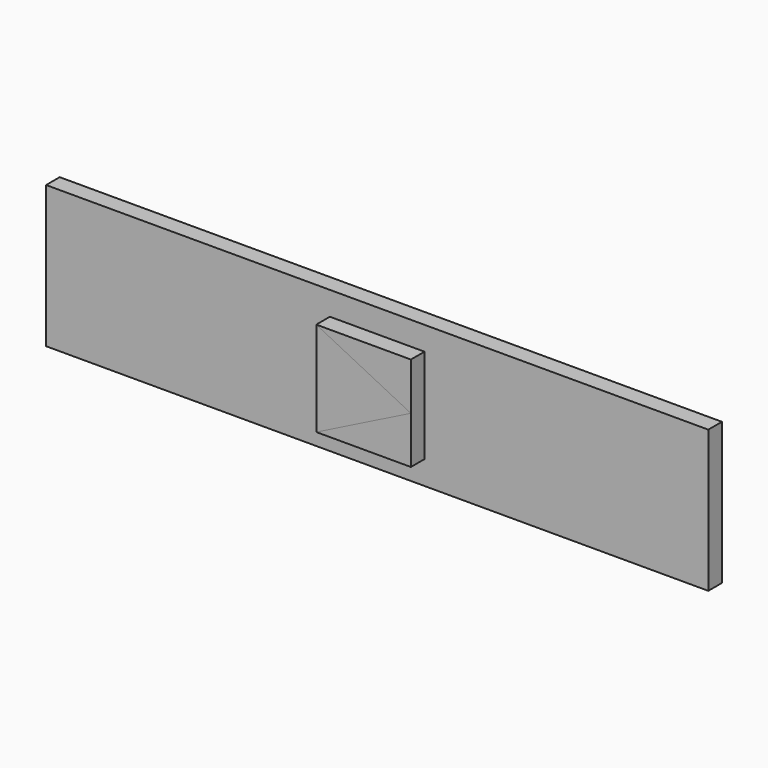
from build123d import *

# Parameters (mm, degrees)
F0_W     = 700
F0_H     = 150
F1_DEPTH = 18
F2_W     = 100
F2_H     = 100
F3_DEPTH = 18
F5_DEPTH = 18


with BuildPart() as f1:
    # F0 (on Front) → F1 (new body)
    with BuildSketch(Plane.XZ):
        Rectangle(F0_W, F0_H)
    extrude(amount=F1_DEPTH)


with BuildPart() as f3:
    # F2 (on face) → F3 (new body)
    with BuildSketch(Plane.XZ.offset(18)):
        Rectangle(F2_W, F2_H)
    extrude(amount=F3_DEPTH)


with BuildPart() as f5:
    # F4 (on face) → F5 (new body)
    with BuildSketch(Plane.XZ.offset(18)):
        Polygon((50, 0), (-50, 50), (-50, -50), align=None)
    extrude(amount=F5_DEPTH)


solid = Compound([f1.part, f3.part, f5.part])
